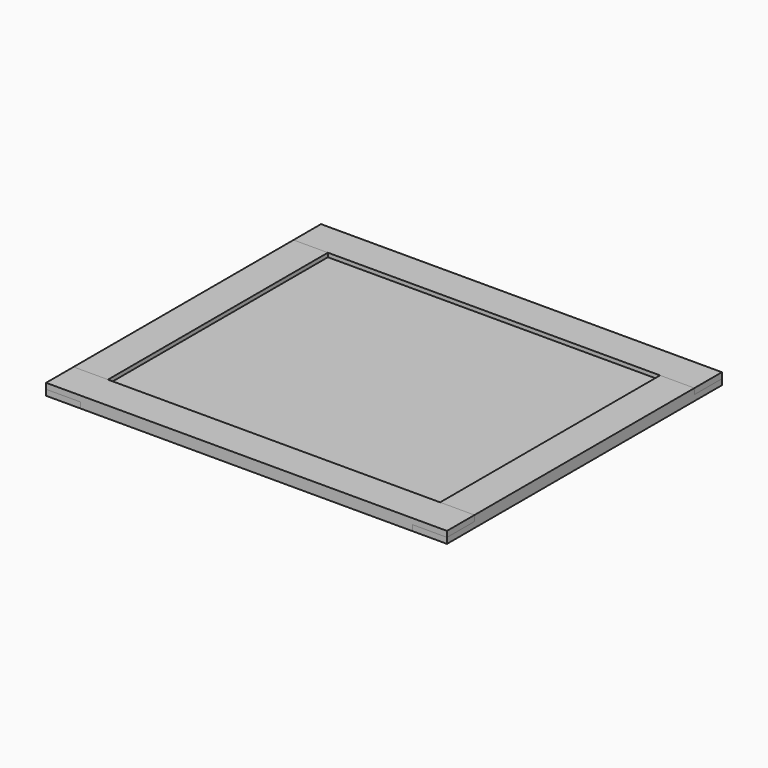
from build123d import *

# Parameters (mm, degrees)
BOX004_W         = 600
BOX004_H         = 500
BOX004_DEPTH     = 3
BOX005_W         = 600
BOX005_H         = 500
BOX005_DEPTH     = 3
BOX006_W         = 60
BOX006_H         = 60
BOX006_DEPTH     = 10
ARRAY_X_COUNT    = 2
ARRAY_X_PITCH    = 640
ARRAY_Y_COUNT    = 2
ARRAY_Y_PITCH    = 540
BOX003_W         = 700
BOX003_H         = 60
BOX003_DEPTH     = 20
BOX002_W         = 700
BOX002_H         = 60
BOX002_DEPTH     = 20
BOX007_W         = 60
BOX007_H         = 60
BOX007_DEPTH     = 10
ARRAY001_X_COUNT = 2
ARRAY001_X_PITCH = 640
ARRAY001_Y_COUNT = 2
ARRAY001_Y_PITCH = 540
BOX001_W         = 60
BOX001_H         = 600
BOX001_DEPTH     = 20
BOX_W            = 60
BOX_H            = 600
BOX_DEPTH        = 20


with BuildPart() as back_picture_store_here:
    # Box004 → Box004 (new body)
    with BuildSketch(Plane(origin=(50, 50, 7), x_dir=(1, 0, 0), z_dir=(0, 0, 1))):
        with Locations((300, 250)):
            Rectangle(BOX004_W, BOX004_H)
    extrude(amount=BOX004_DEPTH)


with BuildPart() as glass:
    # Box005 → Box005 (new body)
    with BuildSketch(Plane(origin=(50, 50, 10), x_dir=(1, 0, 0), z_dir=(0, 0, 1))):
        with Locations((300, 250)):
            Rectangle(BOX005_W, BOX005_H)
    extrude(amount=BOX005_DEPTH)


with BuildPart() as array_joints_top_bottom:
    # Box006 → Box006 (new body)
    with BuildSketch(Plane.XY):
        with Locations((30, 30)):
            Rectangle(BOX006_W, BOX006_H)
    extrude(amount=BOX006_DEPTH)

    # Array X: Array, Joints, Top, Bottom ×2


with BuildPart() as array_joints_top_bottom_1:
    add(array_joints_top_bottom.part)
    with Locations(*[(i * ARRAY_X_PITCH, 0, 0) for i in range(1, ARRAY_X_COUNT)]):
        add(array_joints_top_bottom.part)

    # Array Y: Array, Joints, Top, Bottom ×2


with BuildPart() as array_joints_top_bottom_2:
    add(array_joints_top_bottom_1.part)
    with Locations(*[(0, i * ARRAY_Y_PITCH, 0) for i in range(1, ARRAY_Y_COUNT)]):
        add(array_joints_top_bottom_1.part)


with BuildPart() as frame_bottom:
    # Box003 → Box003 (new body)
    with BuildSketch(Plane.XY):
        with Locations((350, 30)):
            Rectangle(BOX003_W, BOX003_H)
    extrude(amount=BOX003_DEPTH)


with BuildPart() as cut_top_bottom:
    # Box002 → Box002 (new body)
    with BuildSketch(Plane(origin=(0, 540, 0), x_dir=(1, 0, 0), z_dir=(0, 0, 1))):
        with Locations((350, 30)):
            Rectangle(BOX002_W, BOX002_H)
    extrude(amount=BOX002_DEPTH)

    # Fusion: union Frame bottom
    add(frame_bottom.part)

    # Cut: cut Array, Joints, Top, Bottom
    add(array_joints_top_bottom_2.part, mode=Mode.SUBTRACT)


with BuildPart() as array_joints_left_right:
    # Box007 → Box007 (new body)
    with BuildSketch(Plane.XY.offset(10)):
        with Locations((30, 30)):
            Rectangle(BOX007_W, BOX007_H)
    extrude(amount=BOX007_DEPTH)

    # Array001 X: Array, Joints, Left, Right ×2


with BuildPart() as array_joints_left_right_1:
    add(array_joints_left_right.part)
    with Locations(*[(i * ARRAY001_X_PITCH, 0, 0) for i in range(1, ARRAY001_X_COUNT)]):
        add(array_joints_left_right.part)

    # Array001 Y: Array, Joints, Left, Right ×2


with BuildPart() as array_joints_left_right_2:
    add(array_joints_left_right_1.part)
    with Locations(*[(0, i * ARRAY001_Y_PITCH, 0) for i in range(1, ARRAY001_Y_COUNT)]):
        add(array_joints_left_right_1.part)


with BuildPart() as frame_right:
    # Box001 → Box001 (new body)
    with BuildSketch(Plane(origin=(640, 0, 0), x_dir=(1, 0, 0), z_dir=(0, 0, 1))):
        with Locations((30, 300)):
            Rectangle(BOX001_W, BOX001_H)
    extrude(amount=BOX001_DEPTH)


with BuildPart() as cut_left_right:
    # Box → Box (new body)
    with BuildSketch(Plane.XY):
        with Locations((30, 300)):
            Rectangle(BOX_W, BOX_H)
    extrude(amount=BOX_DEPTH)

    # Fusion001: union Frame right
    add(frame_right.part)

    # Cut001: cut Array, Joints, Left, Right
    add(array_joints_left_right_2.part, mode=Mode.SUBTRACT)


solid = Compound([back_picture_store_here.part, glass.part, cut_top_bottom.part, cut_left_right.part])
